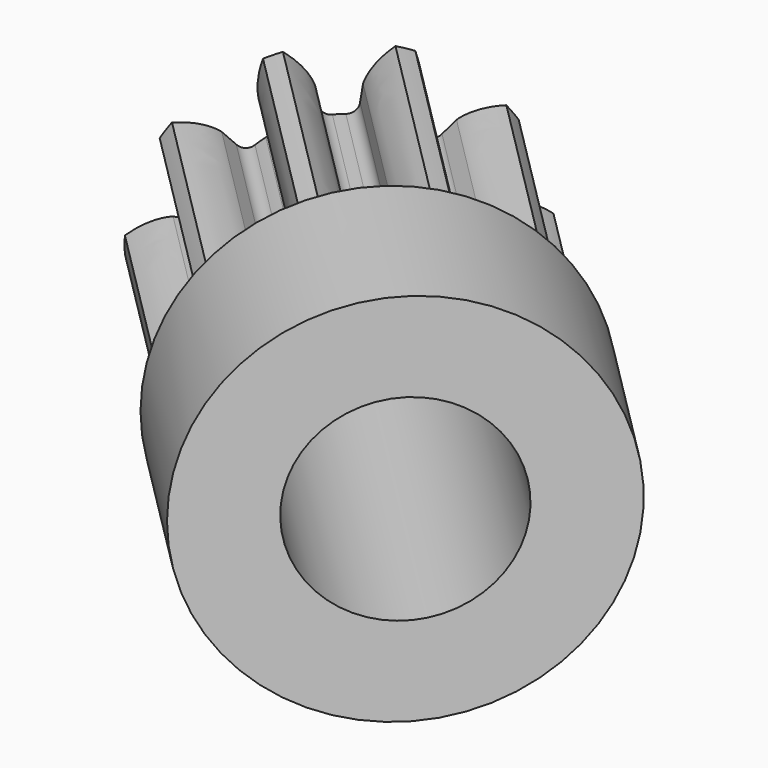
from build123d import *

# Parameters (mm, degrees)
PAD017_DEPTH            = 6
SKETCH071_R             = 4
PAD048_DEPTH            = 4
SKETCH072_R             = 2.1
POCKET027_DEPTH         = 10.001
BODY016_ROLL_ANGLE      = 90
BODY016_PITCH_ANGLE     = 72
BODY016_PLACEMENT_ANGLE = -135


with BuildPart() as part:
    # InvoluteGear001 → Pad017 (new body)
    with BuildSketch(Plane.XY):
        with BuildLine():
            Line((2.441442, -0.424079), (2.786394, -0.483512))
            add(Edge.make_bspline(
                [(2.786394, -0.483512), (2.826329, -0.485878), (2.986418, -0.489828), (3.270809, -0.414983), (3.595681, -0.175183)],
                knots=[0, 0, 0, 0, 0, 1, 1, 1, 1, 1], degree=4))
            ThreePointArc((3.595681, -0.175183), (3.599973, 0.00053), (3.595683, 0.176243))
            add(Edge.make_bspline(
                [(3.595683, 0.176243), (3.270809, 0.414983), (2.986418, 0.489828), (2.826329, 0.485878), (2.786394, 0.483512)],
                knots=[0, 0, 0, 0, 0, 1, 1, 1, 1, 1], degree=4))
            Line((2.786394, 0.483512), (2.441442, 0.424079))
            ThreePointArc((2.441442, 0.424079), (2.274331, 0.45147), (2.172202, 0.586549))
            ThreePointArc((2.172202, 0.586549), (2.139877, 0.695288), (2.102113, 0.80226))
            ThreePointArc((2.102113, 0.80226), (2.10534, 0.971571), (2.224436, 1.091957))
            Line((2.224436, 1.091957), (2.538441, 1.246633))
            add(Edge.make_bspline(
                [(2.538441, 1.246633), (2.57214, 1.268191), (2.703976, 1.359093), (2.890061, 1.586804), (3.011937, 1.971762)],
                knots=[0, 0, 0, 0, 0, 1, 1, 1, 1, 1], degree=4))
            ThreePointArc((3.011937, 1.971762), (2.912128, 2.11644), (2.805376, 2.256073))
            add(Edge.make_bspline(
                [(2.805376, 2.256073), (2.402219, 2.258262), (2.128149, 2.151651), (2.000956, 2.054358), (1.97004, 2.028971)],
                knots=[0, 0, 0, 0, 0, 1, 1, 1, 1, 1], degree=4))
            Line((1.97004, 2.028971), (1.725901, 1.778131))
            ThreePointArc((1.725901, 1.778131), (1.574605, 1.702065), (1.412583, 1.751316))
            ThreePointArc((1.412583, 1.751316), (1.322517, 1.820288), (1.229089, 1.884633))
            ThreePointArc((1.229089, 1.884633), (1.132181, 2.023505), (1.15777, 2.190902))
            Line((1.15777, 2.190902), (1.32089, 2.500605))
            add(Edge.make_bspline(
                [(1.32089, 2.500605), (1.335481, 2.537854), (1.388708, 2.688887), (1.405408, 2.982487), (1.277736, 3.365561)],
                knots=[0, 0, 0, 0, 0, 1, 1, 1, 1, 1], degree=4))
            ThreePointArc((1.277736, 3.365561), (1.111949, 3.423941), (0.94351, 3.47416))
            add(Edge.make_bspline(
                [(0.94351, 3.47416), (0.616063, 3.238961), (0.457, 2.991617), (0.411287, 2.838143), (0.401196, 2.799432)],
                knots=[0, 0, 0, 0, 0, 1, 1, 1, 1, 1], degree=4))
            Line((0.401196, 2.799432), (0.351125, 2.452997))
            ThreePointArc((0.351125, 2.452997), (0.273433, 2.302529), (0.113406, 2.24714))
            ThreePointArc((0.113406, 2.24714), (0, 2.25), (-0.113406, 2.24714))
            ThreePointArc((-0.113406, 2.24714), (-0.273433, 2.302529), (-0.351125, 2.452997))
            Line((-0.351125, 2.452997), (-0.401196, 2.799432))
            add(Edge.make_bspline(
                [(-0.401196, 2.799432), (-0.411287, 2.838143), (-0.457, 2.991617), (-0.616063, 3.238961), (-0.944517, 3.47383)],
                knots=[0, 0, 0, 0, 0, 1, 1, 1, 1, 1], degree=4))
            ThreePointArc((-0.944517, 3.47383), (-1.112957, 3.423614), (-1.278745, 3.365236))
            add(Edge.make_bspline(
                [(-1.278745, 3.365236), (-1.405408, 2.982487), (-1.388708, 2.688887), (-1.335481, 2.537854), (-1.32089, 2.500605)],
                knots=[0, 0, 0, 0, 0, 1, 1, 1, 1, 1], degree=4))
            Line((-1.32089, 2.500605), (-1.15777, 2.190902))
            ThreePointArc((-1.15777, 2.190902), (-1.132181, 2.023505), (-1.229089, 1.884633))
            ThreePointArc((-1.229089, 1.884633), (-1.322517, 1.820288), (-1.412583, 1.751316))
            ThreePointArc((-1.412583, 1.751316), (-1.574605, 1.702065), (-1.725901, 1.778131))
            Line((-1.725901, 1.778131), (-1.97004, 2.028971))
            add(Edge.make_bspline(
                [(-1.97004, 2.028971), (-2.000956, 2.054358), (-2.128149, 2.151651), (-2.402219, 2.258262), (-2.805997, 2.255215)],
                knots=[0, 0, 0, 0, 0, 1, 1, 1, 1, 1], degree=4))
            ThreePointArc((-2.805997, 2.255215), (-2.912751, 2.115582), (-3.012562, 1.970906))
            add(Edge.make_bspline(
                [(-3.012562, 1.970906), (-2.890061, 1.586804), (-2.703976, 1.359093), (-2.57214, 1.268191), (-2.538441, 1.246633)],
                knots=[0, 0, 0, 0, 0, 1, 1, 1, 1, 1], degree=4))
            Line((-2.538441, 1.246633), (-2.224436, 1.091957))
            ThreePointArc((-2.224436, 1.091957), (-2.10534, 0.971571), (-2.102113, 0.80226))
            ThreePointArc((-2.102113, 0.80226), (-2.139877, 0.695288), (-2.172202, 0.586549))
            ThreePointArc((-2.172202, 0.586549), (-2.274331, 0.45147), (-2.441442, 0.424079))
            Line((-2.441442, 0.424079), (-2.786394, 0.483512))
            add(Edge.make_bspline(
                [(-2.786394, 0.483512), (-2.826329, 0.485878), (-2.986418, 0.489828), (-3.270809, 0.414983), (-3.595681, 0.175183)],
                knots=[0, 0, 0, 0, 0, 1, 1, 1, 1, 1], degree=4))
            ThreePointArc((-3.595681, 0.175183), (-3.599973, -0.00053), (-3.595683, -0.176243))
            add(Edge.make_bspline(
                [(-3.595683, -0.176243), (-3.270809, -0.414983), (-2.986418, -0.489828), (-2.826329, -0.485878), (-2.786394, -0.483512)],
                knots=[0, 0, 0, 0, 0, 1, 1, 1, 1, 1], degree=4))
            Line((-2.786394, -0.483512), (-2.441442, -0.424079))
            ThreePointArc((-2.441442, -0.424079), (-2.274331, -0.45147), (-2.172202, -0.586549))
            ThreePointArc((-2.172202, -0.586549), (-2.139877, -0.695288), (-2.102113, -0.80226))
            ThreePointArc((-2.102113, -0.80226), (-2.10534, -0.971571), (-2.224436, -1.091957))
            Line((-2.224436, -1.091957), (-2.538441, -1.246633))
            add(Edge.make_bspline(
                [(-2.538441, -1.246633), (-2.57214, -1.268191), (-2.703976, -1.359093), (-2.890061, -1.586804), (-3.011937, -1.971762)],
                knots=[0, 0, 0, 0, 0, 1, 1, 1, 1, 1], degree=4))
            ThreePointArc((-3.011937, -1.971762), (-2.912128, -2.11644), (-2.805376, -2.256073))
            add(Edge.make_bspline(
                [(-2.805376, -2.256073), (-2.402219, -2.258262), (-2.128149, -2.151651), (-2.000956, -2.054358), (-1.97004, -2.028971)],
                knots=[0, 0, 0, 0, 0, 1, 1, 1, 1, 1], degree=4))
            Line((-1.97004, -2.028971), (-1.725901, -1.778131))
            ThreePointArc((-1.725901, -1.778131), (-1.574605, -1.702065), (-1.412583, -1.751316))
            ThreePointArc((-1.412583, -1.751316), (-1.322517, -1.820288), (-1.229089, -1.884633))
            ThreePointArc((-1.229089, -1.884633), (-1.132181, -2.023505), (-1.15777, -2.190902))
            Line((-1.15777, -2.190902), (-1.32089, -2.500605))
            add(Edge.make_bspline(
                [(-1.32089, -2.500605), (-1.335481, -2.537854), (-1.388708, -2.688887), (-1.405408, -2.982487), (-1.277736, -3.365561)],
                knots=[0, 0, 0, 0, 0, 1, 1, 1, 1, 1], degree=4))
            ThreePointArc((-1.277736, -3.365561), (-1.111949, -3.423941), (-0.94351, -3.47416))
            add(Edge.make_bspline(
                [(-0.94351, -3.47416), (-0.616063, -3.238961), (-0.457, -2.991617), (-0.411287, -2.838143), (-0.401196, -2.799432)],
                knots=[0, 0, 0, 0, 0, 1, 1, 1, 1, 1], degree=4))
            Line((-0.401196, -2.799432), (-0.351125, -2.452997))
            ThreePointArc((-0.351125, -2.452997), (-0.273433, -2.302529), (-0.113406, -2.24714))
            ThreePointArc((-0.113406, -2.24714), (0, -2.25), (0.113406, -2.24714))
            ThreePointArc((0.113406, -2.24714), (0.273433, -2.302529), (0.351125, -2.452997))
            Line((0.351125, -2.452997), (0.401196, -2.799432))
            add(Edge.make_bspline(
                [(0.401196, -2.799432), (0.411287, -2.838143), (0.457, -2.991617), (0.616063, -3.238961), (0.944517, -3.47383)],
                knots=[0, 0, 0, 0, 0, 1, 1, 1, 1, 1], degree=4))
            ThreePointArc((0.944517, -3.47383), (1.112957, -3.423614), (1.278745, -3.365236))
            add(Edge.make_bspline(
                [(1.278745, -3.365236), (1.405408, -2.982487), (1.388708, -2.688887), (1.335481, -2.537854), (1.32089, -2.500605)],
                knots=[0, 0, 0, 0, 0, 1, 1, 1, 1, 1], degree=4))
            Line((1.32089, -2.500605), (1.15777, -2.190902))
            ThreePointArc((1.15777, -2.190902), (1.132181, -2.023505), (1.229089, -1.884633))
            ThreePointArc((1.229089, -1.884633), (1.322517, -1.820288), (1.412583, -1.751316))
            ThreePointArc((1.412583, -1.751316), (1.574605, -1.702065), (1.725901, -1.778131))
            Line((1.725901, -1.778131), (1.97004, -2.028971))
            add(Edge.make_bspline(
                [(1.97004, -2.028971), (2.000956, -2.054358), (2.128149, -2.151651), (2.402219, -2.258262), (2.805997, -2.255215)],
                knots=[0, 0, 0, 0, 0, 1, 1, 1, 1, 1], degree=4))
            ThreePointArc((2.805997, -2.255215), (2.912751, -2.115582), (3.012562, -1.970906))
            add(Edge.make_bspline(
                [(3.012562, -1.970906), (2.890061, -1.586804), (2.703976, -1.359093), (2.57214, -1.268191), (2.538441, -1.246633)],
                knots=[0, 0, 0, 0, 0, 1, 1, 1, 1, 1], degree=4))
            Line((2.538441, -1.246633), (2.224436, -1.091957))
            ThreePointArc((2.224436, -1.091957), (2.10534, -0.971571), (2.102113, -0.80226))
            ThreePointArc((2.102113, -0.80226), (2.139877, -0.695288), (2.172202, -0.586549))
            ThreePointArc((2.172202, -0.586549), (2.274331, -0.45147), (2.441442, -0.424079))
        make_face()
    extrude(amount=PAD017_DEPTH)

    # Sketch071 (on Face81 of Pad017) → Pad048 (join)
    with BuildSketch(Plane(origin=(0, 0, 0), x_dir=(1, 0, 0), z_dir=(0, 0, -1))):
        Circle(SKETCH071_R)
    extrude(amount=PAD048_DEPTH)

    # Sketch072 (on Face3 of Pad048) → Pocket027 (cut, through all)
    with BuildSketch(Plane(origin=(0, 0, -4), x_dir=(1, 0, 0), z_dir=(0, 0, -1))):
        Circle(SKETCH072_R)
    extrude(amount=-POCKET027_DEPTH, mode=Mode.SUBTRACT)


with BuildPart() as part_1:
    # Body016 roll: moved
    add(part.part.rotate(Axis((0, 0, 0), (1, 0, 0)), BODY016_ROLL_ANGLE))


with BuildPart() as part_2:
    # Body016 pitch: moved
    add(part_1.part.rotate(Axis((0, 0, 0), (0, 1, 0)), BODY016_PITCH_ANGLE))


with BuildPart() as part_3:
    # Body016 placement: moved
    add(part_2.part.moved(Location((-44.694546, 37.545514, 0))).rotate(Axis((-44.694546, 37.545514, 0), (0, 0, 1)), BODY016_PLACEMENT_ANGLE))


solid = part_3.part
